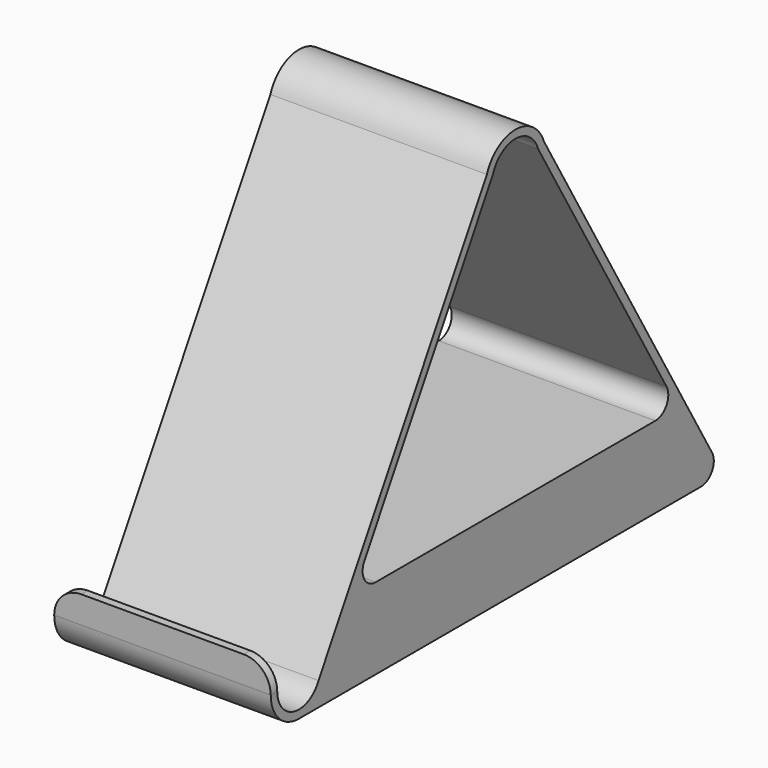
from build123d import *

# Parameters (mm, degrees)
F1_DEPTH = 40
F2_R     = 5


with BuildPart() as f1:
    # F0 (on Right) → F1 (new body)
    with BuildSketch(Plane.YZ):
        with BuildLine():
            Line((-6.5, 5), (-6.5, 0))
            ThreePointArc((-6.5, 0), (-4.596194, -4.596194), (0, -6.5))
            Line((0, -6.5), (50, -6.5))
            Line((50, -6.5), (92.80249, -6.5))
            ThreePointArc((92.80249, -6.5), (95.404751, -4.992729), (95.392137, -1.985494))
            Line((95.392137, -1.985494), (56.588506, 64.364654))
            ThreePointArc((56.588506, 64.364654), (50, 69), (43.411494, 64.364654))
            Line((43.411494, 64.364654), (4.524706, -2.127683))
            ThreePointArc((4.524706, -2.127683), (-1.090062, -4.87973), (-5, 0))
            Line((-5, 0), (-5, 5))
            Line((-5, 5), (-6.5, 5))
        make_face()
        with BuildLine():
            Line((82.292335, 8.5), (50, 8.5))
            Line((50, 8.5), (17.707665, 8.5))
            ThreePointArc((17.707665, 8.5), (15.105405, 10.007271), (15.118018, 13.014506))
            Line((15.118018, 13.014506), (44.780675, 63.734544))
            ThreePointArc((44.780675, 63.734544), (50, 67.5), (55.219325, 63.734544))
            Line((55.219325, 63.734544), (84.881982, 13.014506))
            ThreePointArc((84.881982, 13.014506), (84.894595, 10.007271), (82.292335, 8.5))
        make_face(mode=Mode.SUBTRACT)
    extrude(amount=-F1_DEPTH)

    # F2
    f2_edges = [f1.edges().sort_by_distance(p)[0] for p in [
        (0, -5.75, 5),
        (-40, -5.75, 5),
    ]]
    fillet(f2_edges, radius=F2_R)


solid = f1.part
